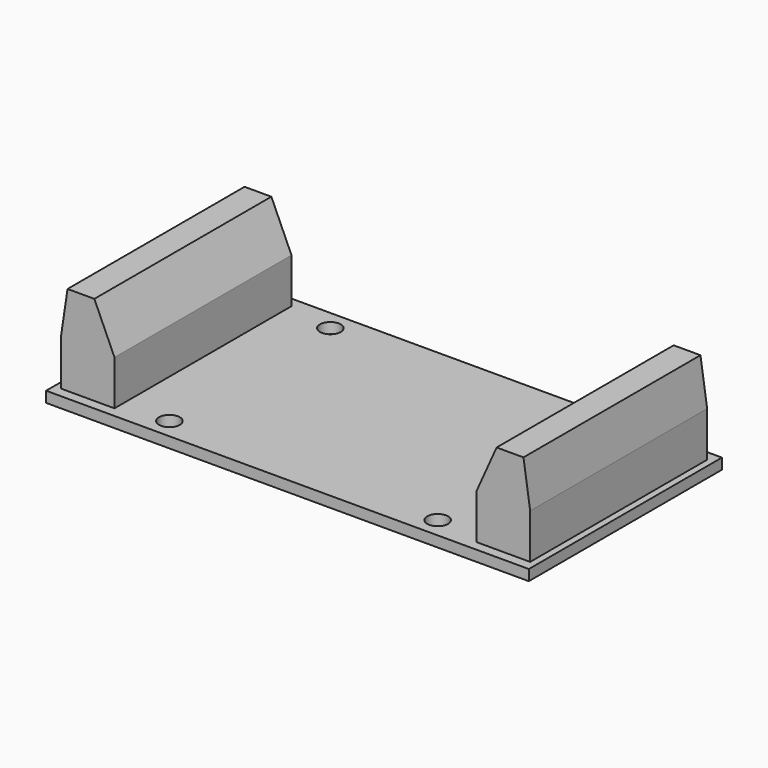
from build123d import *

# Parameters (mm, degrees)
F0_W     = 72
F0_H     = 36
F0_R     = 1.55
F1_DEPTH = 1.6
F3_DEPTH = 16.5


with BuildPart() as f1:
    # F0 (on Top) → F1 (new body)
    with BuildSketch(Plane.XY):
        Rectangle(F0_W, F0_H)
        with Locations((-20, -15)):
            Circle(F0_R, mode=Mode.SUBTRACT)
        with Locations((20, -15)):
            Circle(F0_R, mode=Mode.SUBTRACT)
        with Locations((-20, 15)):
            Circle(F0_R, mode=Mode.SUBTRACT)
        with Locations((20, 15)):
            Circle(F0_R, mode=Mode.SUBTRACT)
    extrude(amount=F1_DEPTH)

    # F2 (on Front) → F3 (join, symmetric)
    with BuildSketch(Plane.XZ):
        Polygon((-35, 1.6), (-27, 1.6), (-27, 8.3), (-30, 15), (-34, 15), (-35, 8.3), align=None)
        Polygon((27, 1.6), (35, 1.6), (35, 8.3), (34, 15), (30, 15), (27, 8.3), align=None)
    extrude(amount=F3_DEPTH, both=True)


solid = f1.part
